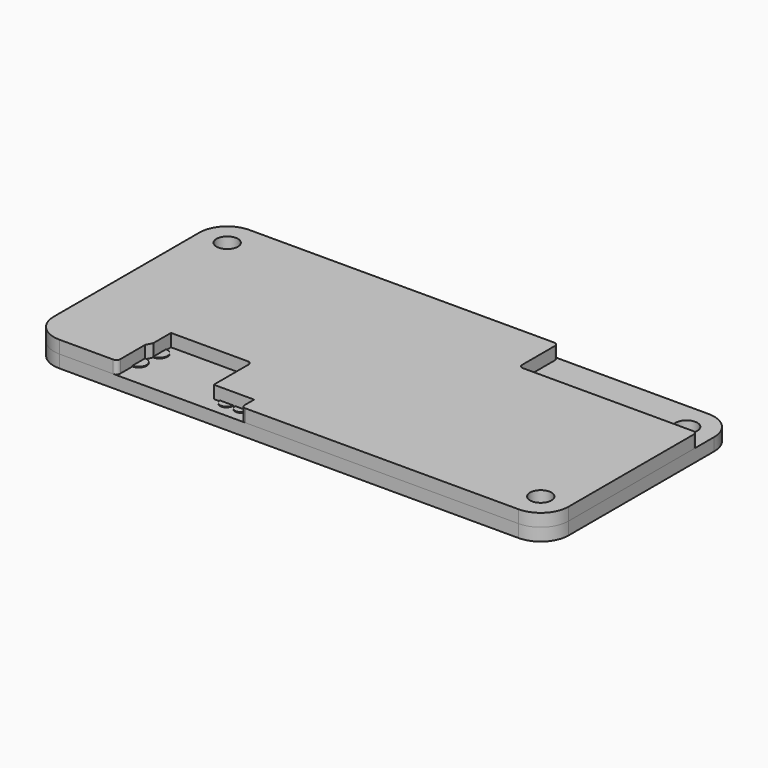
from build123d import *

# Parameters (mm, degrees)
F0_R     = 1.375
F1_DEPTH = 1.6
F2_R     = 1
F2_R_2   = 0.8
F3_DEPTH = 0.1
F5_DEPTH = 1.6
F6_R     = 1.35
F8_DEPTH = 1.6


with BuildPart() as f1:
    # F0 (on Top) → F1 (new body)
    with BuildSketch(Plane.XY):
        with BuildLine():
            ThreePointArc((32.5, 11.5), (31.474874, 13.974874), (29, 15))
            Line((29, 15), (-29, 15))
            ThreePointArc((-29, 15), (-31.474874, 13.974874), (-32.5, 11.5))
            Line((-32.5, 11.5), (-32.5, -11.5))
            ThreePointArc((-32.5, -11.5), (-31.474874, -13.974874), (-29, -15))
            Line((-29, -15), (29, -15))
            ThreePointArc((29, -15), (31.474874, -13.974874), (32.5, -11.5))
            Line((32.5, -11.5), (32.5, 11.5))
        make_face()
        with Locations((-29, -11.5)):
            Circle(F0_R, mode=Mode.SUBTRACT)
        with Locations((29, -11.5)):
            Circle(F0_R, mode=Mode.SUBTRACT)
        with Locations((-29, 11.5)):
            Circle(F0_R, mode=Mode.SUBTRACT)
        with Locations((29, 11.5)):
            Circle(F0_R, mode=Mode.SUBTRACT)
    extrude(amount=F1_DEPTH)

    # F2 (on face) → F3 (join)
    with BuildSketch(Plane.XY.offset(1.6)):
        with Locations((-21.7, -11.6)):
            Circle(F2_R)
        with Locations((-21.3, -8.8)):
            Circle(F2_R)
        with Locations((-9.5, -13)):
            Circle(F2_R_2)
        with Locations((-7.6, -13)):
            Circle(F2_R_2)
    extrude(amount=F3_DEPTH)


with BuildPart() as f5:
    # F4 (on face) → F5 (new body)
    with BuildSketch(Plane.XY.offset(1.6)):
        with BuildLine():
            ThreePointArc((10, 14.5), (9.853553, 14.853553), (9.5, 15))
            Line((9.5, 15), (-29, 15))
            ThreePointArc((-29, 15), (-31.474874, 13.974874), (-32.5, 11.5))
            Line((-32.5, 11.5), (-32.5, -11.5))
            ThreePointArc((-32.5, -11.5), (-31.474874, -13.974874), (-29, -15))
            Line((-29, -15), (-22.2, -15))
            ThreePointArc((-22.2, -15), (-21.846447, -14.853553), (-21.7, -14.5))
            Line((-21.7, -14.5), (-21.7, -10.6))
            Line((-21.7, -10.6), (-21.3, -9.8))
            Line((-21.3, -9.8), (-21.3, -7.8))
            Line((-21.3, -7.8), (-21.3, -7))
            Line((-21.3, -7), (-11.6, -7))
            ThreePointArc((-11.6, -7), (-11.246447, -7.146447), (-11.1, -7.5))
            Line((-11.1, -7.5), (-11.1, -13))
            Line((-11.1, -13), (-9.5, -13))
            Line((-9.5, -13), (-7.6, -13))
            Line((-7.6, -13), (-6, -13))
            Line((-6, -13), (-6, -14.5))
            ThreePointArc((-6, -14.5), (-5.853553, -14.853553), (-5.5, -15))
            Line((-5.5, -15), (29, -15))
            ThreePointArc((29, -15), (31.474874, -13.974874), (32.5, -11.5))
            Line((32.5, -11.5), (32.5, 8.3))
            ThreePointArc((32.5, 8.3), (32.353553, 8.653553), (32, 8.8))
            Line((32, 8.8), (10.5, 8.8))
            ThreePointArc((10.5, 8.8), (10.146447, 8.946447), (10, 9.3))
            Line((10, 9.3), (10, 14.5))
        make_face()
    extrude(amount=F5_DEPTH)

    # F6 (on face) → F8 (cut)
    with BuildSketch(Plane.XY.offset(3.2)):
        with Locations((-29, 11.5)):
            Circle(F6_R)
        with Locations((29, -11.5)):
            Circle(F6_R)
    extrude(amount=-F8_DEPTH, mode=Mode.SUBTRACT)


solid = Compound([f1.part, f5.part])
